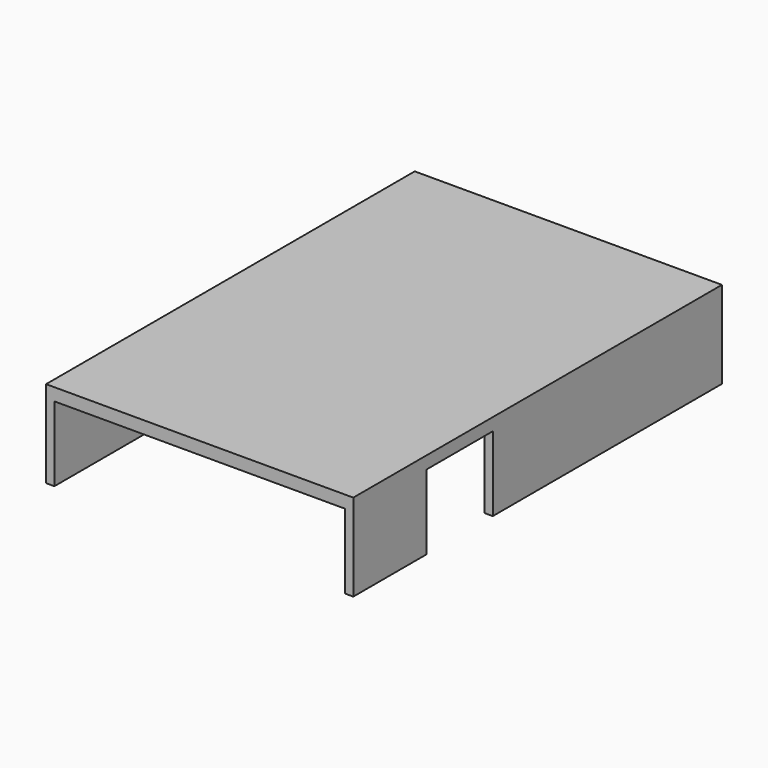
from build123d import *

# Parameters (mm, degrees)
F0_W     = 1
F0_H     = 10
F1_DEPTH = 1.5
F2_DEPTH = 9


with BuildPart() as f1:
    # F0 (on Top) → F1 (new body)
    with BuildSketch(Plane.XY):
        Polygon((-17.5, 26.75), (0, 26.75), (17.5, 26.75), (17.5, 27.75), (0, 27.75), (-17.5, 27.75), align=None)
        Polygon((-17.5, 0), (-17.5, 26.75), (-17.5, 27.75), (-18.5, 27.75), (-18.5, -27.75), (-17.5, -27.75), (-17.5, -26.75), align=None)
        Polygon((17.5, 26.75), (0, 26.75), (-17.5, 26.75), (-17.5, 0), (-17.5, -26.75), (0, -26.75), (17.5, -26.75), (17.5, -16.75), (17.5, -6.75), (17.5, 0), align=None)
        Polygon((0, -26.75), (-17.5, -26.75), (-17.5, -27.75), (0, -27.75), (17.5, -27.75), (17.5, -26.75), align=None)
        Polygon((17.5, 27.75), (17.5, 26.75), (17.5, 0), (17.5, -6.75), (18.5, -6.75), (18.5, 27.75), align=None)
        Polygon((18.5, -16.75), (17.5, -16.75), (17.5, -26.75), (17.5, -27.75), (18.5, -27.75), align=None)
        with Locations((18, -11.75)):
            Rectangle(F0_W, F0_H)
    extrude(amount=F1_DEPTH)

    # F0 (on Top) → F2 (join)
    with BuildSketch(Plane.XY):
        Polygon((-17.5, 0), (-17.5, 26.75), (-17.5, 27.75), (-18.5, 27.75), (-18.5, -27.75), (-17.5, -27.75), (-17.5, -26.75), align=None)
        Polygon((17.5, 27.75), (17.5, 26.75), (17.5, 0), (17.5, -6.75), (18.5, -6.75), (18.5, 27.75), align=None)
        Polygon((18.5, -16.75), (17.5, -16.75), (17.5, -26.75), (17.5, -27.75), (18.5, -27.75), align=None)
    extrude(amount=-F2_DEPTH)


solid = f1.part
